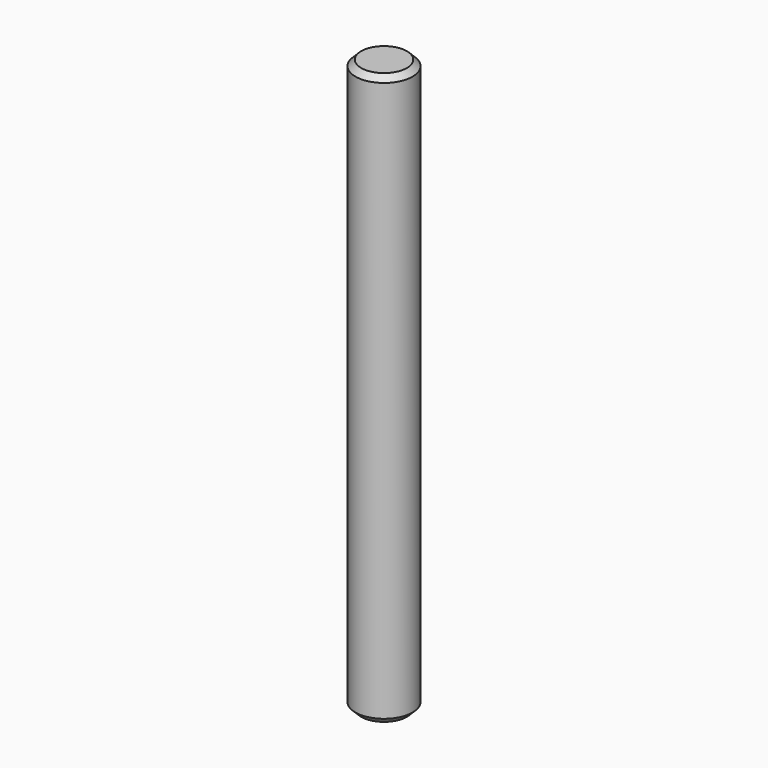
from build123d import *

# Parameters (mm, degrees)
SKETCH_R     = 2.5
PAD_DEPTH    = 50
CHAMFER_SIZE = 0.5


with BuildPart() as part:
    # Sketch → Pad (new body)
    with BuildSketch(Plane.XY):
        Circle(SKETCH_R)
    extrude(amount=PAD_DEPTH)

    # Chamfer
    chamfer_edges = [part.edges().sort_by_distance(p)[0] for p in [
        (-2.5, 0, 50),
        (-2.5, 0, 0),
    ]]
    chamfer(chamfer_edges, length=CHAMFER_SIZE)


solid = part.part
